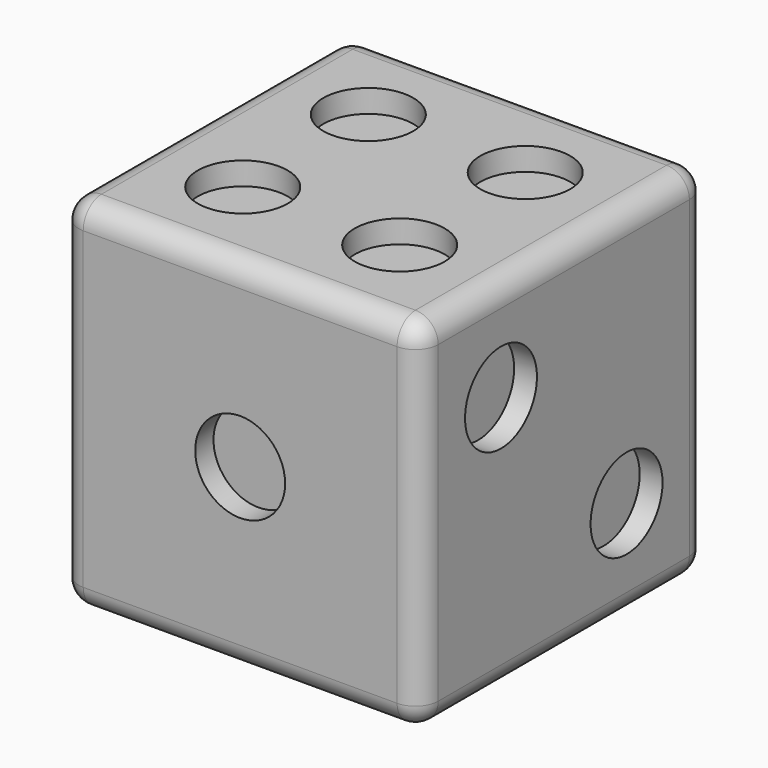
from build123d import *

# Parameters (mm, degrees)
F0_W          = 200
F0_H          = 200
F1_DEPTH      = 100
F1_DEPTH_BACK = 100
F2_R          = 12.7
F3_R          = 25
F4_DEPTH      = 12.7
F5_R          = 25
F6_DEPTH      = 12.7
F7_R          = 25
F9_DEPTH      = 12.7
F10_R         = 25
F11_DEPTH     = 12.7
F12_R         = 25
F13_DEPTH     = 12.7
F14_R         = 25
F15_DEPTH     = 12.7


with BuildPart() as f1:
    # F0 (on Top) → F1 (new body, two sides)
    with BuildSketch(Plane.XY) as f1_sk:
        Rectangle(F0_W, F0_H)
    extrude(amount=F1_DEPTH)
    extrude(f1_sk.sketch, amount=-F1_DEPTH_BACK)

    # F2
    f2_edges = [f1.edges().sort_by_distance(p)[0] for p in [
        (100, 0, 100),
        (0, 100, 100),
        (-100, 0, 100),
        (0, -100, 100),
        (-100, -100, 0),
        (-100, 0, -100),
        (-100, 100, 0),
        (100, 0, -100),
        (0, 100, -100),
        (0, -100, -100),
        (100, 100, 0),
        (100, -100, 0),
    ]]
    fillet(f2_edges, radius=F2_R)

    # F3 (on face) → F4 (cut)
    with BuildSketch(Plane.XZ.offset(100)):
        Circle(F3_R)
    extrude(amount=-F4_DEPTH, mode=Mode.SUBTRACT)

    # F5 (on face) → F6 (cut)
    with BuildSketch(Plane(origin=(0, 100, 0), x_dir=(-1, 0, 0), z_dir=(0, 1, 0))):
        with Locations((-49.8331896961, 49.8331896961)):
            Circle(F5_R)
        with Locations((3.5068103039, 49.8331896961)):
            Circle(F5_R)
        with Locations((56.8468103039, 49.8331896961)):
            Circle(F5_R)
        with Locations((-49.8331896961, -49.2268103039)):
            Circle(F5_R)
        with Locations((3.5068103039, -49.2268103039)):
            Circle(F5_R)
        with Locations((56.8468103039, -49.2268103039)):
            Circle(F5_R)
    extrude(amount=-F6_DEPTH, mode=Mode.SUBTRACT)

    # F7 (on face) → F9 (cut)
    with BuildSketch(Plane(origin=(-100, 0, 0), x_dir=(0, -1, 0), z_dir=(-1, 0, 0))):
        with Locations((-43.65, 43.65)):
            Circle(F7_R)
        with BuildLine():
            ThreePointArc((24.561363538, -59.7938520193), (52.2460481749, -67.1256886113), (68.65, -43.65))
            ThreePointArc((68.65, -43.65), (67.1342312954, -35.077317779), (62.770729563, -27.5441718319))
            ThreePointArc((62.770729563, -27.5441718319), (27.5572450229, -24.5833313789), (24.561363538, -59.7938520193))
        make_face()
        with BuildLine():
            ThreePointArc((62.770729563, -27.5441718319), (67.1342312954, -35.077317779), (68.65, -43.65))
            ThreePointArc((68.65, -43.65), (52.2460481749, -67.1256886113), (24.561363538, -59.7938520193))
            ThreePointArc((24.561363538, -59.7938520193), (52.254775322, -67.1722551466), (68.6820931009, -43.6880238512))
            ThreePointArc((68.6820931009, -43.6880238512), (67.1577817122, -35.0919756763), (62.770729563, -27.5441718319))
        make_face()
        with BuildLine():
            ThreePointArc((24.561363538, -59.7938520193), (27.5572450229, -24.5833313789), (62.770729563, -27.5441718319))
            ThreePointArc((62.770729563, -27.5441718319), (27.525151922, -24.5453075277), (24.561363538, -59.7938520193))
        make_face()
        with Locations((-43.688, -44.704)):
            Circle(F7_R)
        with Locations((43.7200931009, 44.6659761488)):
            Circle(F7_R)
        Circle(F7_R)
    extrude(amount=-F9_DEPTH, mode=Mode.SUBTRACT)

    # F10 (on face) → F11 (cut)
    with BuildSketch(Plane(origin=(0, 0, -100), x_dir=(1, 0, 0), z_dir=(0, 0, -1))):
        with Locations((43.65, 43.65)):
            Circle(F10_R)
        Circle(F10_R)
        with Locations((-43.65, -43.65)):
            Circle(F10_R)
    extrude(amount=-F11_DEPTH, mode=Mode.SUBTRACT)

    # F12 (on face) → F13 (cut)
    with BuildSketch(Plane.XY.offset(100)):
        with Locations((-43.65, 43.65)):
            Circle(F12_R)
        with Locations((43.65, 43.65)):
            Circle(F12_R)
        with Locations((43.65, -43.65)):
            Circle(F12_R)
        with Locations((-43.65, -43.65)):
            Circle(F12_R)
    extrude(amount=-F13_DEPTH, mode=Mode.SUBTRACT)

    # F14 (on face) → F15 (cut)
    with BuildSketch(Plane.YZ.offset(100)):
        with Locations((-43.65, 43.65)):
            Circle(F14_R)
        with Locations((43.65, -43.65)):
            Circle(F14_R)
    extrude(amount=-F15_DEPTH, mode=Mode.SUBTRACT)


solid = f1.part
